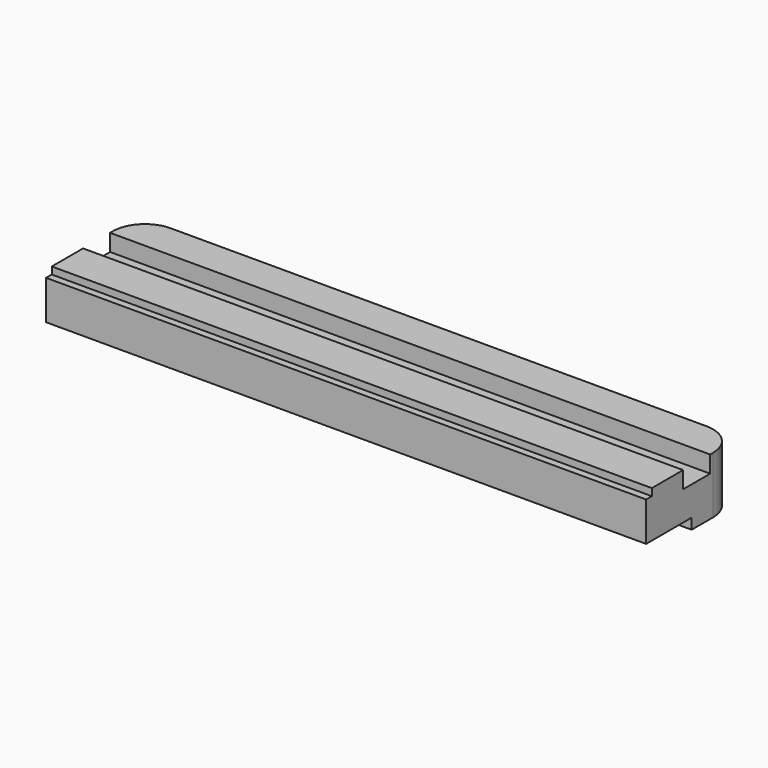
from build123d import *

# Parameters (mm, degrees)
PAD005_DEPTH    = 32
SKETCH013_W     = 337.5
SKETCH013_H     = 19
POCKET007_DEPTH = 9.5
SKETCH014_W     = 337.5
SKETCH014_H     = 4
POCKET008_DEPTH = 4
SKETCH015_W     = 337.5
SKETCH015_H     = 32
POCKET009_DEPTH = 6


with BuildPart() as part:
    # Sketch012 → Pad005 (new body)
    with BuildSketch(Plane.XY):
        with BuildLine():
            Line((18, 65), (319.5, 65))
            ThreePointArc((337.5, 47), (332.227922, 59.727922), (319.5, 65))
            Line((337.5, 47), (337.5, 0))
            Line((337.5, 0), (0, 0))
            Line((0, 0), (0, 47))
            ThreePointArc((18, 65), (5.272078, 59.727922), (0, 47))
        make_face()
    extrude(amount=PAD005_DEPTH)

    # Sketch013 (on Face8 of Pad005) → Pocket007 (cut)
    with BuildSketch(Plane.XY.offset(32)):
        with Locations((168.75, 35.5)):
            Rectangle(SKETCH013_W, SKETCH013_H)
    extrude(amount=-POCKET007_DEPTH, mode=Mode.SUBTRACT)

    # Sketch014 (on Face4 of Pocket007) → Pocket008 (cut)
    with BuildSketch(Plane.XY.offset(32)):
        with Locations((168.75, 2)):
            Rectangle(SKETCH014_W, SKETCH014_H)
    extrude(amount=-POCKET008_DEPTH, mode=Mode.SUBTRACT)

    # Sketch015 (on Face2 of Pocket008) → Pocket009 (cut)
    with BuildSketch(Plane(origin=(0, 0, 0), x_dir=(1, 0, 0), z_dir=(0, 0, -1))):
        with Locations((168.75, -16)):
            Rectangle(SKETCH015_W, SKETCH015_H)
    extrude(amount=-POCKET009_DEPTH, mode=Mode.SUBTRACT)


solid = part.part
